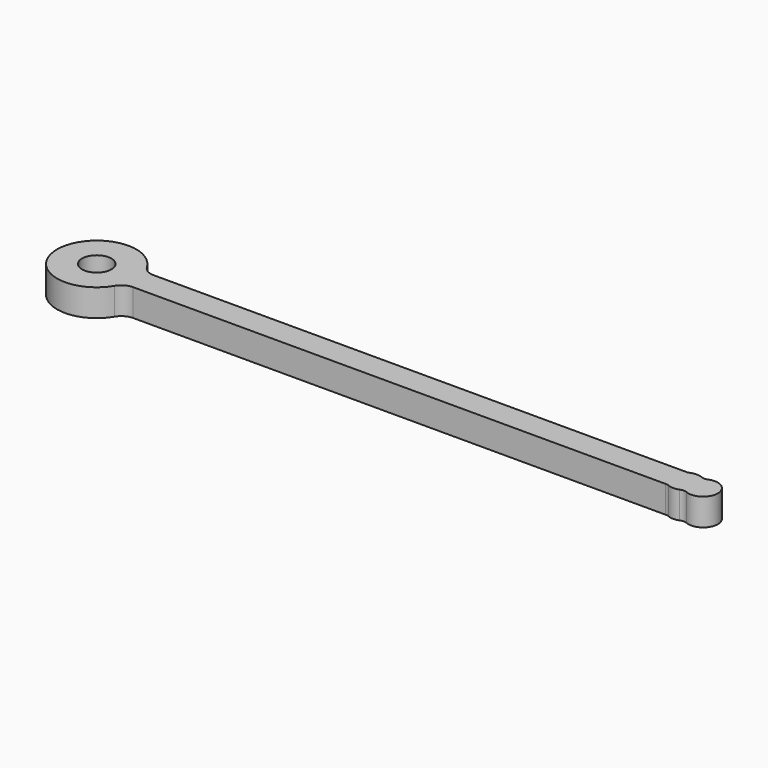
from build123d import *

# Parameters (mm, degrees)
SKETCH_R  = 6.5
PAD_DEPTH = 12


with BuildPart() as part:
    # Sketch → Pad (new body)
    with BuildSketch(Plane.XY):
        with BuildLine():
            ThreePointArc((-1.52381, 6.009865), (-3.999998, 6.5), (-6.476186, 6.009867))
            ThreePointArc((-7.999993, 5.708247), (-7.223307, 5.784376), (-6.476186, 6.009867))
            Line((-7.999993, 5.708247), (-243.337021, 5.708247))
            ThreePointArc((-248.933244, 8.901847), (-246.558697, 6.562824), (-243.337021, 5.708247))
            ThreePointArc((-248.933244, 8.901847), (-281.5, 0), (-248.933244, -8.901847))
            ThreePointArc((-243.337021, -5.708247), (-246.558697, -6.562824), (-248.933244, -8.901847))
            Line((-7.999993, -5.708247), (-243.337021, -5.708247))
            ThreePointArc((-6.476186, -6.009867), (-7.223307, -5.784376), (-7.999993, -5.708247))
            ThreePointArc((-6.476186, -6.009867), (-3.999998, -6.5), (-1.52381, -6.009865))
            ThreePointArc((1.52381, -6.009865), (0, -5.708244), (-1.52381, -6.009865))
            ThreePointArc((1.52381, -6.009865), (10.5, 0), (1.52381, 6.009865))
            ThreePointArc((-1.52381, 6.009865), (0, 5.708244), (1.52381, 6.009865))
        make_face()
        with Locations((-264, 0)):
            Circle(SKETCH_R, mode=Mode.SUBTRACT)
    extrude(amount=PAD_DEPTH)


solid = part.part
